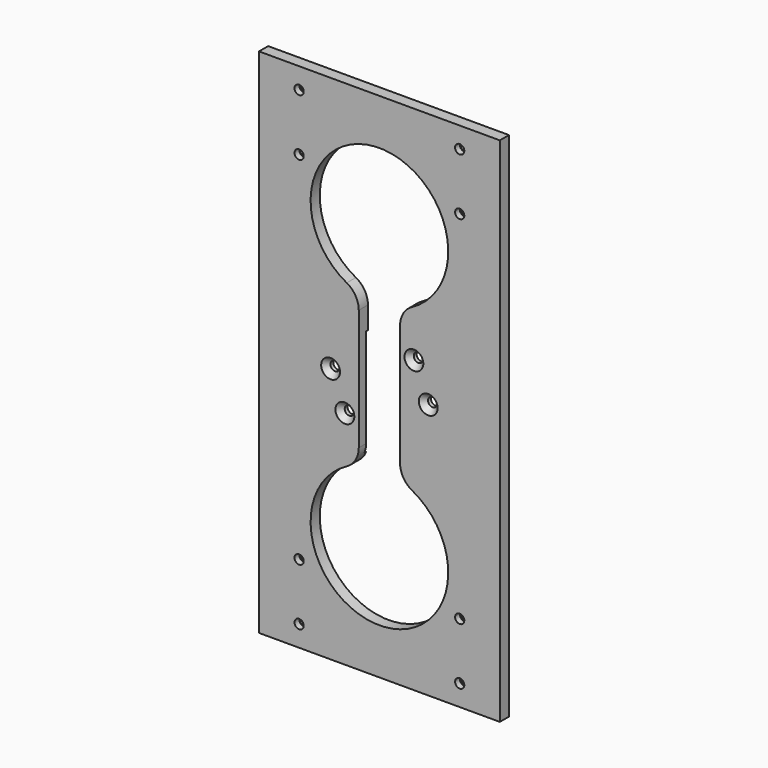
from build123d import *

# Parameters (mm, degrees)
F0_W           = 133.35
F0_H           = 6.35
F1_DEPTH       = 283.464
F6_DEPTH       = 1.27
F7_D           = 5.1054
F7_CSINK_D     = 10.4394
F7_CSINK_ANGLE = 82
F9_D           = 5.1054
F9_CSINK_D     = 10.4394
F9_CSINK_ANGLE = 82
F11_DEPTH      = 6.351


with BuildPart() as f1:
    # F0 (on Top) → F1 (new body)
    with BuildSketch(Plane.XY):
        with Locations((66.675, 3.175)):
            Rectangle(F0_W, F0_H)
    extrude(amount=F1_DEPTH)

    # F5 (on face) → F6 (cut)
    with BuildSketch(Plane(origin=(0, 6.35, 0), x_dir=(-1, 0, 0), z_dir=(0, 1, 0))):
        with BuildLine():
            ThreePointArc((-102.87, 123.698), (-101.9400640303, 121.4529359697), (-99.695, 120.523))
            Line((-99.695, 120.523), (-75.080136745, 120.523))
            Line((-75.080136745, 120.523), (-58.2492406429, 103.6921038979))
            ThreePointArc((-58.2492406429, 103.6921038979), (-56.0041766126, 102.7621679282), (-53.7591125824, 103.6921038979))
            Line((-53.7591125824, 103.6921038979), (-36.9282164803, 120.523))
            Line((-36.9282164803, 120.523), (-33.655, 120.523))
            ThreePointArc((-33.655, 120.523), (-31.4099359697, 121.4529359697), (-30.48, 123.698))
            Line((-30.48, 123.698), (-30.48, 126.9712164803))
            Line((-30.48, 126.9712164803), (-28.2551851985, 129.1960312817))
            ThreePointArc((-28.2551851985, 129.1960312817), (-27.3252492288, 131.441095312), (-28.2551851985, 133.6861593423))
            Line((-28.2551851985, 133.6861593423), (-30.48, 135.9109741438))
            Line((-30.48, 135.9109741438), (-30.48, 159.766))
            ThreePointArc((-30.48, 159.766), (-31.4099359697, 162.0110640303), (-33.655, 162.941))
            Line((-33.655, 162.941), (-57.5100258562, 162.941))
            Line((-57.5100258562, 162.941), (-74.9525170281, 180.3834911718))
            ThreePointArc((-74.9525170281, 180.3834911718), (-77.1975810584, 181.3134271416), (-79.4426450886, 180.3834911718))
            Line((-79.4426450886, 180.3834911718), (-96.8851362605, 162.941))
            Line((-96.8851362605, 162.941), (-99.695, 162.941))
            ThreePointArc((-99.695, 162.941), (-101.9400640303, 162.0110640303), (-102.87, 159.766))
            Line((-102.87, 159.766), (-102.87, 156.9561362605))
            Line((-102.87, 156.9561362605), (-104.9465724725, 154.879563788))
            ThreePointArc((-104.9465724725, 154.879563788), (-105.8765084422, 152.6344997577), (-104.9465724725, 150.3894357275))
            Line((-104.9465724725, 150.3894357275), (-102.87, 148.312863255))
            Line((-102.87, 148.312863255), (-102.87, 123.698))
        make_face()
    extrude(amount=-F6_DEPTH, mode=Mode.SUBTRACT)

    # F7 (through all)
    with Locations(Plane.XZ):
        with Locations((39.65575, 141.732), (93.69425, 141.732), (85.7804948976, 160.8374948976), (47.5695051024, 122.6265051024)):
            CounterSinkHole(F7_D / 2, F7_CSINK_D / 2, counter_sink_angle=F7_CSINK_ANGLE)

    # F9 (through all)
    with Locations(Plane(origin=(0, 6.35, 0), x_dir=(-1, 0, 0), z_dir=(0, 1, 0))):
        with Locations((-22.225, 271.907), (-111.125, 271.907), (-22.225, 11.557), (-111.125, 11.557), (-111.125, 240.411), (-22.225, 240.411), (-111.125, 43.053), (-22.225, 43.053)):
            CounterSinkHole(F9_D / 2, F9_CSINK_D / 2, counter_sink_angle=F9_CSINK_ANGLE)

    # F10 (on face) → F11 (cut, through all)
    with BuildSketch(Plane.XZ):
        with BuildLine():
            ThreePointArc((78.105, 175.2607215967), (79.8985168363, 181.7675353331), (84.7725, 186.4365411975))
            ThreePointArc((84.7725, 186.4365411975), (66.675, 258.064), (48.5775, 186.4365411975))
            ThreePointArc((48.5775, 186.4365411975), (53.4514831637, 181.7675353331), (55.245, 175.2607215967))
            Line((55.245, 175.2607215967), (55.245, 108.2032784033))
            ThreePointArc((55.245, 108.2032784033), (53.4514831637, 101.6964646669), (48.5775, 97.0274588025))
            ThreePointArc((48.5775, 97.0274588025), (66.675, 25.4), (84.7725, 97.0274588025))
            ThreePointArc((84.7725, 97.0274588025), (79.8985168363, 101.6964646669), (78.105, 108.2032784033))
            Line((78.105, 108.2032784033), (78.105, 175.2607215967))
        make_face()
    extrude(amount=-F11_DEPTH, mode=Mode.SUBTRACT)


solid = f1.part
